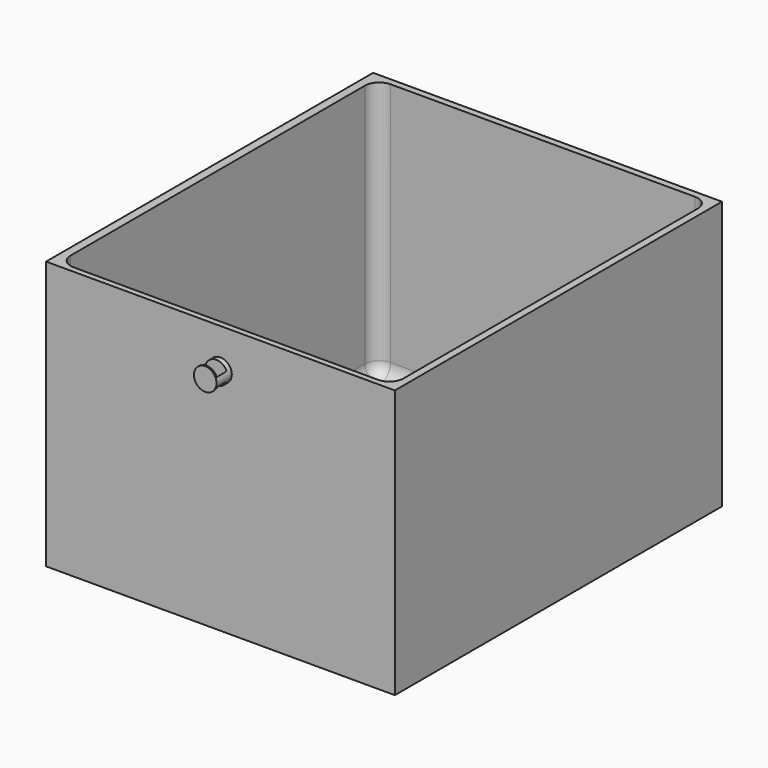
from build123d import *

# Parameters (mm, degrees)
F0_W     = 125.476
F0_H     = 96.52
F1_DEPTH = 147.066
F2_W     = 119.730074
F2_H     = 142.576096
F3_DEPTH = 93.218
F4_R     = 4.07019
F5_DEPTH = 6.858
F6_W     = 7.457384
F6_H     = 3.801271
F7_DEPTH = 93.219
F8_W     = 7.396578
F8_H     = 3.085688
F9_DEPTH = 96.521
F10_R    = 5.08


with BuildPart() as f1:
    # F0 (on Front) → F1 (new body)
    with BuildSketch(Plane.XZ):
        Rectangle(F0_W, F0_H)
    extrude(amount=F1_DEPTH)

    # F2 (on face) → F3 (cut)
    with BuildSketch(Plane.XY.offset(48.26)):
        with Locations((0.211539, -73.679165)):
            Rectangle(F2_W, F2_H)
    extrude(amount=-F3_DEPTH, mode=Mode.SUBTRACT)

    # F4 (on face) → F5 (join)
    with BuildSketch(Plane.XZ.offset(147.066)):
        with Locations((0, 34.248885)):
            Circle(F4_R)
    extrude(amount=F5_DEPTH)

    # F6 (on face) → F7 (cut, through all)
    with BuildSketch(Plane.XY.offset(-44.958)):
        with Locations((0.002428, -151.50956)):
            Rectangle(F6_W, F6_H)
    extrude(amount=F7_DEPTH, mode=Mode.SUBTRACT)

    # F8 (on face) → F9 (cut, through all)
    with BuildSketch(Plane.XY.offset(48.26)):
        with Locations((-0.007179, -150.470339)):
            Rectangle(F8_W, F8_H)
    extrude(amount=-F9_DEPTH, mode=Mode.SUBTRACT)

    # F10
    f10_edges = [f1.edges().sort_by_distance(p)[0] for p in [
        (-59.653498, -144.967213, 1.651),
        (0.211539, -144.967213, -44.958),
        (-59.653498, -73.679165, -44.958),
        (60.076576, -73.679165, -44.958),
        (60.076576, -144.967213, 1.651),
        (0.211539, -2.391117, -44.958),
        (-59.653498, -2.391117, 1.651),
        (60.076576, -2.391117, 1.651),
    ]]
    fillet(f10_edges, radius=F10_R)


solid = f1.part
